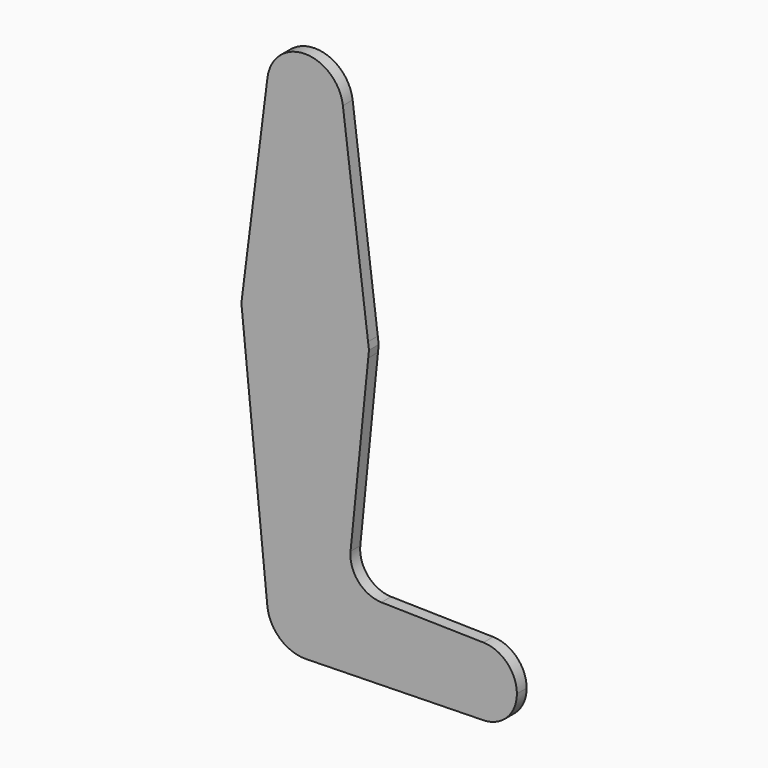
from build123d import *

# Parameters (mm, degrees)
F1_DEPTH = 3.048


with BuildPart() as f1:
    # F0 (on Front) → F1 (new body)
    with BuildSketch(Plane.XZ):
        with BuildLine():
            Line((-15.9751747256, 63.7009815757), (-15.7954255164, 61.9124995254))
            ThreePointArc((-15.7954255164, 61.9124995254), (-15.8737438153, 63.6997054956), (-15.7504882118, 65.4843754909))
            Line((-15.7504882118, 65.4843754909), (-15.9751747256, 63.7009815757))
        make_face()
        with BuildLine():
            ThreePointArc((15.875, 63.5), (15.8550939102, 62.7052534382), (15.7954255625, 61.9124999847))
            Line((15.7954255625, 61.9124999847), (15.9751747256, 63.7009815757))
            Line((15.9751747256, 63.7009815757), (15.7504882695, 65.4843750333))
            ThreePointArc((15.7504882695, 65.4843750333), (15.8438414893, 64.4941387534), (15.875, 63.5))
        make_face()
        with BuildLine():
            ThreePointArc((35.8775, 0), (38.4536253196, -6.1262751278), (44.6336964286, -8.570531598))
            ThreePointArc((44.6336964286, -8.570531598), (50.5762751278, -5.9963746804), (53.0225, 0))
            ThreePointArc((53.0225, 0), (50.5762751278, 5.9963746804), (44.6336964286, 8.570531598))
            ThreePointArc((44.6336964286, 8.570531598), (38.4536253196, 6.1262751278), (35.8775, 0))
        make_face()
        with BuildLine():
            ThreePointArc((9.4502929642, 115.490625), (0, 123.825), (-9.4502929642, 115.490625))
            ThreePointArc((-9.4502929642, 115.490625), (-7.14375, 107.9998046905), (0, 104.775))
            ThreePointArc((0, 104.775), (6.7351920908, 107.5648079092), (9.525, 114.3))
            ThreePointArc((9.525, 114.3), (9.5063048942, 114.896483242), (9.4502929642, 115.490625))
        make_face()
        with BuildLine():
            Line((-15.7954255164, 61.9124995254), (-9.4772553384, -0.9525))
            ThreePointArc((-9.4772553384, -0.9525), (-7.063929059, 6.3895642457), (0, 9.525))
            Line((0, 9.525), (0, 47.625))
            ThreePointArc((0, 47.625), (-10.649273566, 51.7267847418), (-15.7954255164, 61.9124995254))
        make_face()
        with BuildLine():
            ThreePointArc((9.525, 0), (6.8069723643, -6.6626385338), (0.2041071429, -9.5228128867))
            Line((0.2041071429, -9.5228128867), (44.6336964286, -8.570531598))
            ThreePointArc((44.6336964286, -8.570531598), (38.4536253196, -6.1262751278), (35.8775, 0))
            Line((35.8775, 0), (9.525, 0))
        make_face()
        with BuildLine():
            Line((0, 104.775), (0, 79.375))
            ThreePointArc((0, 79.375), (10.5003255032, 75.4062500111), (15.7504882695, 65.4843750333))
            Line((15.7504882695, 65.4843750333), (9.4502929642, 115.490625))
            ThreePointArc((9.4502929642, 115.490625), (9.5063048942, 114.896483242), (9.525, 114.3))
            ThreePointArc((9.525, 114.3), (6.7351920908, 107.5648079092), (0, 104.775))
        make_face()
        with BuildLine():
            Line((-9.4502929642, 115.490625), (-15.7504882118, 65.4843754909))
            ThreePointArc((-15.7504882118, 65.4843754909), (-10.5003253303, 75.4062501636), (0, 79.375))
            Line((0, 79.375), (0, 104.775))
            ThreePointArc((0, 104.775), (-7.14375, 107.9998046905), (-9.4502929642, 115.490625))
        make_face()
        with BuildLine():
            Line((0, 79.375), (0, 47.625))
            ThreePointArc((0, 47.625), (10.6492737371, 51.7267848966), (15.7954255625, 61.9124999847))
            ThreePointArc((15.7954255625, 61.9124999847), (15.8550939102, 62.7052534382), (15.875, 63.5))
            ThreePointArc((15.875, 63.5), (15.8438414893, 64.4941387534), (15.7504882695, 65.4843750333))
            ThreePointArc((15.7504882695, 65.4843750333), (10.5003255032, 75.4062500111), (0, 79.375))
        make_face()
        with BuildLine():
            ThreePointArc((-15.7504882118, 65.4843754909), (-15.8737438153, 63.6997054956), (-15.7954255164, 61.9124995254))
            ThreePointArc((-15.7954255164, 61.9124995254), (-10.649273566, 51.7267847418), (0, 47.625))
            Line((0, 47.625), (0, 79.375))
            ThreePointArc((0, 79.375), (-10.5003253303, 75.4062501636), (-15.7504882118, 65.4843754909))
        make_face()
        with BuildLine():
            Line((0, 47.625), (0, 9.525))
            ThreePointArc((0, 9.525), (6.7351920908, 6.7351920908), (9.525, 0))
            Line((9.525, 0), (35.8775, 0))
            ThreePointArc((35.8775, 0), (38.4536253196, 6.1262751278), (44.6336964286, 8.570531598))
            Line((44.6336964286, 8.570531598), (19.1080738747, 9.117634849))
            ThreePointArc((19.1080738747, 9.117634849), (13.3256034098, 11.7963345393), (11.3680861808, 17.8610293384))
            Line((11.3680861808, 17.8610293384), (15.7954255625, 61.9124999847))
            ThreePointArc((15.7954255625, 61.9124999847), (10.6492737371, 51.7267848966), (0, 47.625))
        make_face()
        with BuildLine():
            ThreePointArc((0, 9.525), (-7.063929059, 6.3895642457), (-9.4772553384, -0.9525))
            ThreePointArc((-9.4772553384, -0.9525), (-6.3135081459, -7.1319870928), (0.2041071429, -9.5228128867))
            ThreePointArc((0.2041071429, -9.5228128867), (6.8069723643, -6.6626385338), (9.525, 0))
            Line((9.525, 0), (0, 0))
            Line((0, 0), (0, 9.525))
        make_face()
        with BuildLine():
            ThreePointArc((9.525, 0), (6.7351920908, 6.7351920908), (0, 9.525))
            Line((0, 9.525), (0, 0))
            Line((0, 0), (9.525, 0))
        make_face()
    extrude(amount=F1_DEPTH)


solid = f1.part
